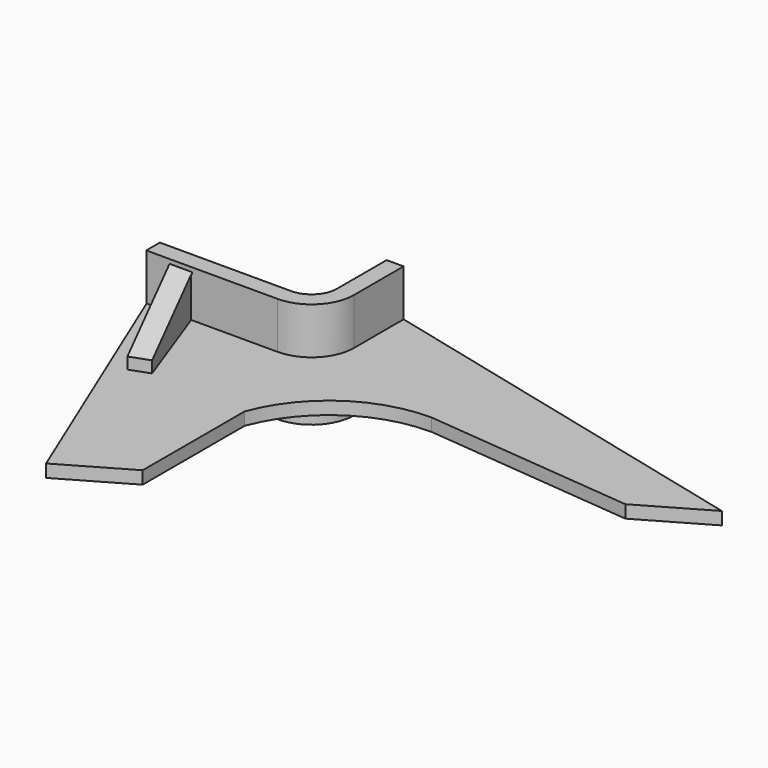
from build123d import *

# Parameters (mm, degrees)
F1_DEPTH = 1.5
F3_DEPTH = 1.5
F5_DEPTH = 12.5
F7_DEPTH = 10
F9_DEPTH = 5


with BuildPart() as f1:
    # F0 (on Top) → F1 (new body, symmetric)
    with BuildSketch(Plane.XY):
        with BuildLine():
            Line((93.483799182, 1.5717417002), (0, 24.639101699))
            Line((0, 24.639101699), (0, 10))
            ThreePointArc((0, 10), (-2.9289321881, 2.9289321881), (-10, 0))
            Line((-10, 0), (-25.5, 0))
            Line((-25.5, 0), (-41, 0))
            Line((-41, 0), (-15.5884572681, -61.4011549224))
            Line((-15.5884572681, -61.4011549224), (0, -52.4011549224))
            Line((0, -52.4011549224), (0, -22.3483927548))
            ThreePointArc((0, -22.3483927548), (11.1050484965, -8.0156356733), (28.4436228876, -2.7124417533))
            Line((28.4436228876, -2.7124417533), (77.8953419139, -7.4282582998))
            Line((77.8953419139, -7.4282582998), (93.483799182, 1.5717417002))
        make_face()
        with BuildLine():
            Line((0, 10), (0, 24.639101699))
            Line((0, 24.639101699), (-4, 24.639101699))
            Line((-4, 24.639101699), (-4, 10))
            ThreePointArc((-4, 10), (-5.7573593129, 5.7573593129), (-10, 4))
            Line((-10, 4), (-41, 4))
            Line((-41, 4), (-41, 0))
            Line((-41, 0), (-25.5, 0))
            Line((-25.5, 0), (-10, 0))
            ThreePointArc((-10, 0), (-2.9289321881, 2.9289321881), (0, 10))
        make_face()
    extrude(amount=F1_DEPTH, both=True)

    # F2 (on Top) → F3 (join, symmetric)
    with BuildSketch(Plane.XY):
        Polygon((-0.4887568886, 8.2661984248), (-11.5621451159, 1.5826697675), (-0.9085235181, -15.3436513582), (9.5235692223, -9.0471873172), align=None)
    extrude(amount=F3_DEPTH, both=True)

    # F4 (on Top) → F5 (join, symmetric)
    with BuildSketch(Plane.XY):
        with BuildLine():
            Line((-0.0799827916, 10.0108882828), (-0.0799827916, 24.6499899817))
            Line((-0.0799827916, 24.6499899817), (-4.0799827916, 24.6499899817))
            Line((-4.0799827916, 24.6499899817), (-4.0799827916, 10.0108882828))
            ThreePointArc((-4.0799827916, 10.0108882828), (-5.8373421045, 5.7682475956), (-10.0799827916, 4.0108882828))
            Line((-10.0799827916, 4.0108882828), (-41.0799827916, 4.0108882828))
            Line((-41.0799827916, 4.0108882828), (-41.0799827916, 0.0108882828))
            Line((-41.0799827916, 0.0108882828), (-10.0799827916, 0.0108882828))
            ThreePointArc((-10.0799827916, 0.0108882828), (-3.0089149798, 2.9398204709), (-0.0799827916, 10.0108882828))
        make_face()
    extrude(amount=F5_DEPTH, both=True)

    # F6 (on face) → F7 (join)
    with BuildSketch(Plane.XY.offset(1.5)):
        Polygon((-35.8013698642, 0.5949702468), (-27.2878240943, -22.7958045155), (-22.773043412, -21.1525587329), (-31.2865891819, 2.2382160294), align=None)
    extrude(amount=F7_DEPTH)

    # F8 (on face) → F9 (cut)
    with BuildSketch(Plane(origin=(-31.422185401, -11.4367401815, 0), x_dir=(0.3420201433, -0.9396926208, 0), z_dir=(-0.9396926208, -0.3420201433, 0))):
        Polygon((-12.1823117593, 11.5), (12.0880637803, 4.2156488635), (12.0880637803, 11.5), align=None)
    extrude(amount=-F9_DEPTH, mode=Mode.SUBTRACT)


solid = f1.part
